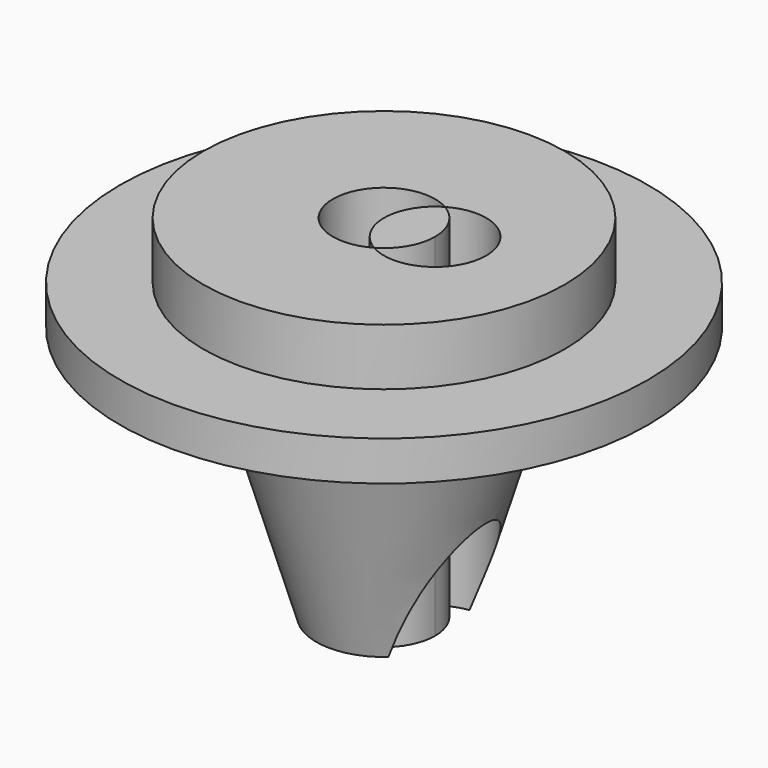
from build123d import *

# Parameters (mm, degrees)
F3_DEPTH = 127


with BuildPart() as f1:
    # F0 (on Front) → F1 (revolve)
    with BuildSketch(Plane.XZ):
        Polygon((0, 62.936448), (0, 0), (12.137905, 0), (25.719218, 45.652363), (47.289535, 45.652363), (47.289535, 52.757118), (32.376718, 52.757118), (32.376718, 62.936448), align=None)
    revolve(axis=Axis((0, 0, 31.468224), (0, 0, 1)))

    # F2 (on face) → F3 (cut)
    with BuildSketch(Plane.XY.offset(62.936448)):
        with BuildLine():
            ThreePointArc((4.577126, -7.927814), (0, 0), (4.577126, 7.927814))
            ThreePointArc((4.577126, 7.927814), (-9.154251, 0), (4.577126, -7.927814))
        make_face()
        with BuildLine():
            ThreePointArc((4.577126, 7.927814), (7.927814, 4.577126), (9.154251, 0))
            ThreePointArc((9.154251, 0), (7.927814, -4.577126), (4.577126, -7.927814))
            ThreePointArc((4.577126, -7.927814), (13.731377, -7.927814), (18.308502, 0))
            ThreePointArc((18.308502, 0), (13.731377, 7.927814), (4.577126, 7.927814))
        make_face()
    extrude(amount=-F3_DEPTH, mode=Mode.SUBTRACT)


solid = f1.part
